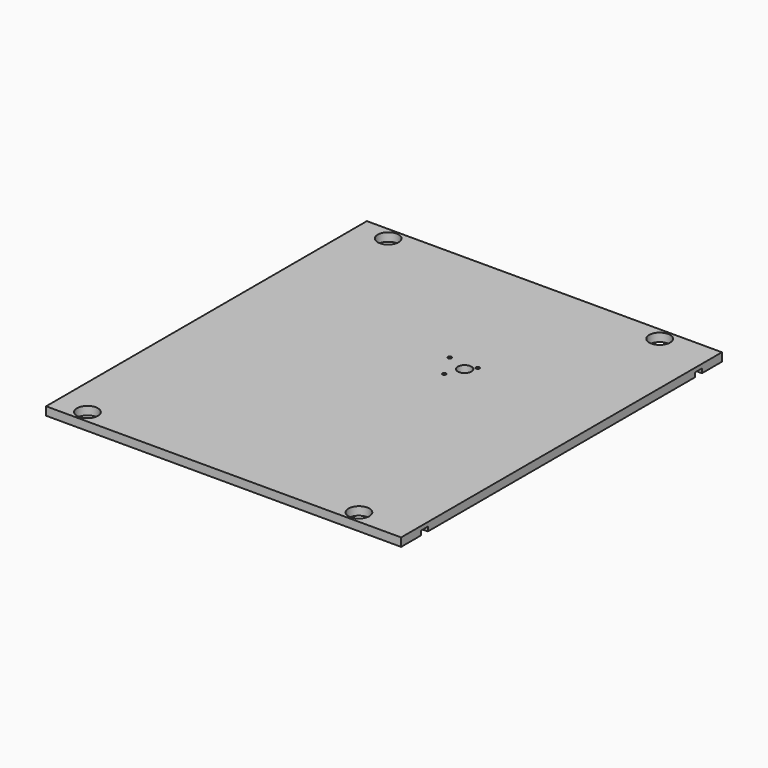
from build123d import *

# Parameters (mm, degrees)
SKETCH023_W     = 340
SKETCH023_H     = 384
SKETCH023_R     = 1.7
SKETCH023_R_2   = 6.5
SKETCH023_R_3   = 10
PAD015_DEPTH    = 8
SKETCH040_W     = 340
SKETCH040_H     = 8.1
POCKET009_DEPTH = 4.1


with BuildPart() as wall_inner:
    # Sketch023 → Pad015 (new body)
    with BuildSketch(Plane.XY.offset(40)):
        with Locations((210, 0)):
            Rectangle(SKETCH023_W, SKETCH023_H)
        with Locations((226.376606, 58.25)):
            Circle(SKETCH023_R, mode=Mode.SUBTRACT)
        with Locations((253.223394, 58.25)):
            Circle(SKETCH023_R, mode=Mode.SUBTRACT)
        with Locations((239.8, 35)):
            Circle(SKETCH023_R, mode=Mode.SUBTRACT)
        with Locations((246.8, 50.5)):
            Circle(SKETCH023_R_2, mode=Mode.SUBTRACT)
        with Locations((70, 180)):
            Circle(SKETCH023_R_3, mode=Mode.SUBTRACT)
        with Locations((330, 180)):
            Circle(SKETCH023_R_3, mode=Mode.SUBTRACT)
        with Locations((70, -180)):
            Circle(SKETCH023_R_3, mode=Mode.SUBTRACT)
        with Locations((330, -180)):
            Circle(SKETCH023_R_3, mode=Mode.SUBTRACT)
    extrude(amount=-PAD015_DEPTH)

    # Sketch040 → Pocket009 (cut)
    with BuildSketch(Plane.XY.offset(40)):
        with Locations((210, 164.05)):
            Rectangle(SKETCH040_W, SKETCH040_H)
        with Locations((210, -164.05)):
            Rectangle(SKETCH040_W, SKETCH040_H)
    extrude(amount=-POCKET009_DEPTH, mode=Mode.SUBTRACT)


with BuildPart() as part_mirroring004:
    # Part__Mirroring004: instance of Wall-inner
    add(wall_inner.part.mirror(Plane(origin=(0, 0, 200), x_dir=(0, 1, 0), z_dir=(0, 0, 1))))


solid = part_mirroring004.part
